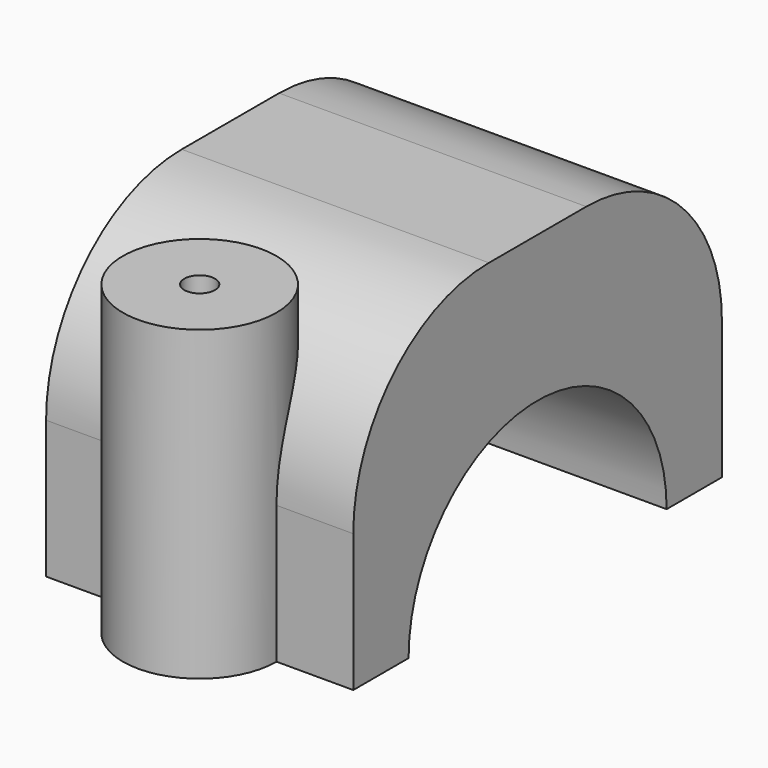
from build123d import *

# Parameters (mm, degrees)
F0_W     = 10
F0_H     = 15
F1_DEPTH = 7.5
F3_DEPTH = 10.001
F4_W     = 10
F4_H     = 15
F5_DEPTH = 2.5
F6_R     = 5.518892
F7_R     = 0.5
F8_DEPTH = 10.001
F7_R_2   = 2.5
F9_DEPTH = 10


with BuildPart() as f1:
    # F0 (on Top) → F1 (new body)
    with BuildSketch(Plane.XY):
        with Locations((5, 7.5)):
            Rectangle(F0_W, F0_H)
    extrude(amount=F1_DEPTH)

    # F2 (on face) → F3 (cut, through all)
    with BuildSketch(Plane(origin=(0, 0, 0), x_dir=(0, -1, 0), z_dir=(-1, 0, 0))):
        with BuildLine():
            Line((-12.75, 0), (-2.25, 0))
            ThreePointArc((-2.25, 0), (-7.5, 5.25), (-12.75, 0))
        make_face()
    extrude(amount=-F3_DEPTH, mode=Mode.SUBTRACT)

    # F4 (on face) → F5 (join)
    with BuildSketch(Plane.XY.offset(7.5)):
        with Locations((5, 7.5)):
            Rectangle(F4_W, F4_H)
    extrude(amount=F5_DEPTH)

    # F6
    f6_edges = [f1.edges().sort_by_distance(p)[0] for p in [
        (5, 15, 10),
        (5, 0, 10),
    ]]
    fillet(f6_edges, radius=F6_R)

    # F7 (on face) → F8 (cut, through all)
    with BuildSketch(Plane.XY.offset(10)):
        with Locations((5, 0)):
            Circle(F7_R)
    extrude(amount=-F8_DEPTH, mode=Mode.SUBTRACT)

    # F7 (on face) → F9 (join)
    with BuildSketch(Plane.XY.offset(10)):
        with Locations((5, 0)):
            Circle(F7_R_2)
        with Locations((5, 0)):
            Circle(F7_R, mode=Mode.SUBTRACT)
    extrude(amount=-F9_DEPTH)


solid = f1.part
